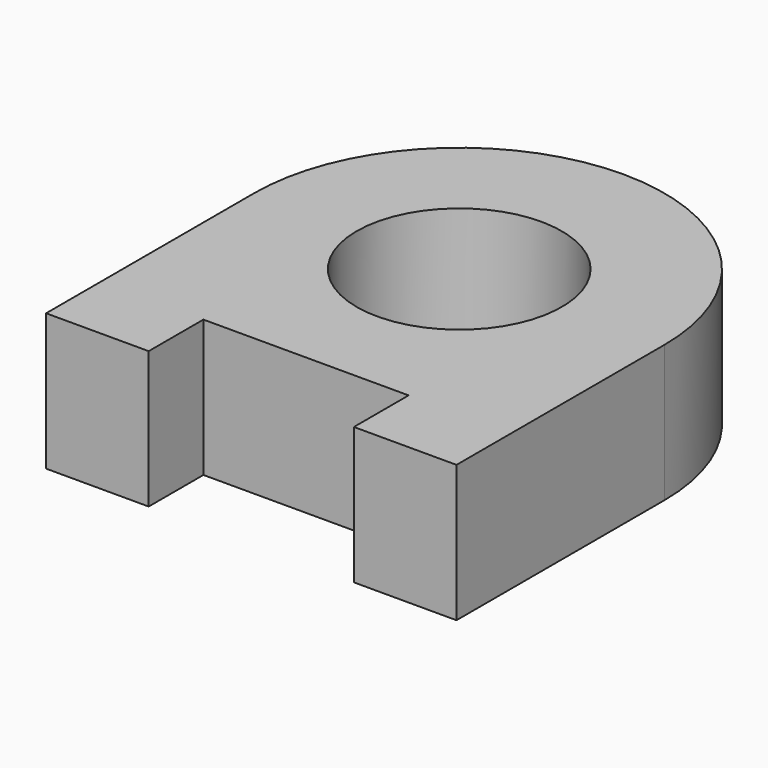
from build123d import *

# Parameters (mm, degrees)
F2_DEPTH = 508


with BuildPart() as f2:
    # F0 (on Top) → F2 (new body)
    with BuildSketch(Plane.XY):
        with BuildLine():
            Line((524.8217124201, -773.6769930978), (524.8217124201, 191.5230069022))
            Line((524.8217124201, 191.5230069022), (143.8217124201, 191.5230069022))
            ThreePointArc((143.8217124201, 191.5230069022), (-237.1782875799, -189.4769930978), (-618.1782875799, 191.5230069022))
            Line((-618.1782875799, 191.5230069022), (-999.1782875799, 191.5230069022))
            Line((-999.1782875799, 191.5230069022), (-999.1782875799, -773.6769930978))
            Line((-999.1782875799, -773.6769930978), (-618.1782875799, -773.6769930978))
            Line((-618.1782875799, -773.6769930978), (-618.1782875799, -519.6769930978))
            Line((-618.1782875799, -519.6769930978), (143.8217124201, -519.6769930978))
            Line((143.8217124201, -519.6769930978), (143.8217124201, -773.6769930978))
            Line((143.8217124201, -773.6769930978), (524.8217124201, -773.6769930978))
        make_face()
        with BuildLine():
            Line((143.8217124201, 191.5230069022), (524.8217124201, 191.5230069022))
            ThreePointArc((524.8217124201, 191.5230069022), (-237.1782875799, 953.5230069022), (-999.1782875799, 191.5230069022))
            Line((-999.1782875799, 191.5230069022), (-618.1782875799, 191.5230069022))
            ThreePointArc((-618.1782875799, 191.5230069022), (-237.1782875799, 572.5230069022), (143.8217124201, 191.5230069022))
        make_face()
    extrude(amount=-F2_DEPTH)


solid = f2.part
